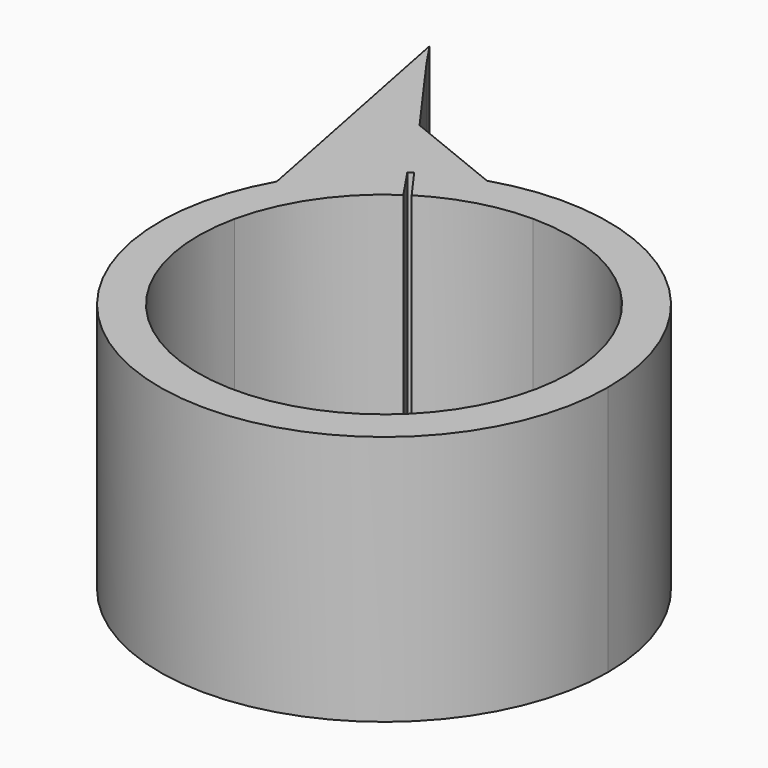
from build123d import *

# Parameters (mm, degrees)
F1_DEPTH = 25.4


with BuildPart() as f1:
    # F0 (on Top) → F1 (new body)
    with BuildSketch(Plane.XY):
        with BuildLine():
            ThreePointArc((13.0618680099, 13.5551585422), (17.3239053997, 7.3645787871), (18.8243119133, 0))
            ThreePointArc((18.8243119133, 0), (17.0184848696, -8.0452403166), (11.9474717876, -14.546911593))
            ThreePointArc((11.9474717876, -14.546911593), (-2.5896126549, -18.6453378974), (-15.4595749617, -10.7404032053))
            ThreePointArc((-15.4595749617, -10.7404032053), (-18.4689369538, -3.6404789255), (-18.3789787384, 4.070363564))
            Line((-18.3789787384, 4.070363564), (-19.7733572668, 11.1443474156))
            ThreePointArc((-19.7733572668, 11.1443474156), (-5.7608119103, -21.9543886969), (22.6976240369, 0))
            ThreePointArc((22.6976240369, 0), (13.3977651709, 18.3216272571), (-6.880980737, 21.6294762077))
            Line((-6.880980737, 21.6294762077), (0.0476754735, 18.8242515405))
            ThreePointArc((0.0476754735, 18.8242515405), (7.0644085274, 17.4484627165), (13.0618680099, 13.5551585422))
        make_face()
        with BuildLine():
            ThreePointArc((-9.9726661353, 15.9656083243), (-5.1642347128, 18.1020827211), (0.0476754735, 18.8242515405))
            Line((0.0476754735, 18.8242515405), (-6.880980737, 21.6294762077))
            ThreePointArc((-6.880980737, 21.6294762077), (-9.6409310081, 20.5483475301), (-12.2364601905, 19.11677742))
            Line((-12.2364601905, 19.11677742), (-9.9726661353, 15.9656083243))
        make_face()
        with BuildLine():
            ThreePointArc((-12.2364601905, 19.11677742), (-9.6409310081, 20.5483475301), (-6.880980737, 21.6294762077))
            Line((-6.880980737, 21.6294762077), (-16.9785588705, 25.7177112706))
            Line((-16.9785588705, 25.7177112706), (-12.2364601905, 19.11677742))
        make_face()
        with BuildLine():
            Line((-19.7733572668, 11.1443474156), (-18.3789787384, 4.070363564))
            ThreePointArc((-18.3789787384, 4.070363564), (-15.5619762395, 10.5914878337), (-10.5289284374, 15.6043707009))
            Line((-10.5289284374, 15.6043707009), (-12.6953728924, 18.815144008))
            ThreePointArc((-12.6953728924, 18.815144008), (-16.6812736213, 15.3921164007), (-19.7733572668, 11.1443474156))
        make_face()
        with BuildLine():
            ThreePointArc((-12.6953728924, 18.815144008), (-12.4668288228, 18.967348682), (-12.2364601905, 19.11677742))
            Line((-12.2364601905, 19.11677742), (-16.9785588705, 25.7177112706))
            Line((-16.9785588705, 25.7177112706), (-17.4935011837, 25.9261974237))
            Line((-17.4935011837, 25.9261974237), (-12.6953728924, 18.815144008))
        make_face()
        Polygon((-17.4935011837, 25.9261974237), (-16.9785588705, 25.7177112706), (-23.1374846011, 34.2908482046), align=None)
        with BuildLine():
            Line((-23.1374846011, 28.2112929779), (-19.7733572668, 11.1443474156))
            ThreePointArc((-19.7733572668, 11.1443474156), (-16.6812736213, 15.3921164007), (-12.6953728924, 18.815144008))
            Line((-12.6953728924, 18.815144008), (-17.4935011837, 25.9261974237))
            Line((-17.4935011837, 25.9261974237), (-23.1374846011, 28.2112929779))
        make_face()
        Polygon((-17.4935011837, 25.9261974237), (-23.1374846011, 34.2908482046), (-24.8304028064, 36.7998331785), (-23.1374846011, 28.2112929779), align=None)
    extrude(amount=F1_DEPTH)


solid = f1.part
